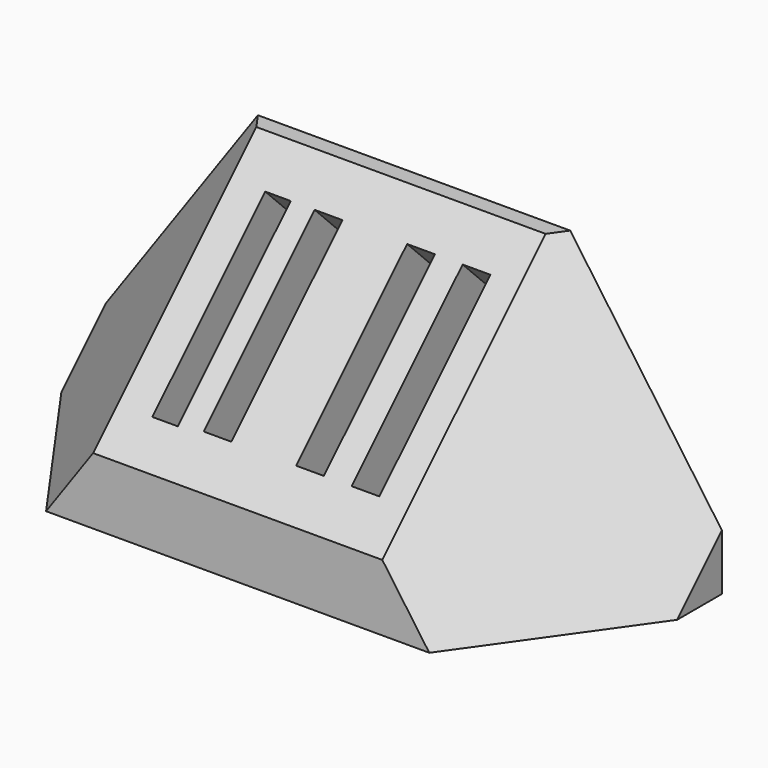
from build123d import *

# Parameters (mm, degrees)
F0_W      = 76.6343446126
F0_H      = 33.6732733995
F1_DEPTH  = 27.432
F2_SIZE   = 25.4
F3_SIZE   = 20.32
F4_W      = 3.1658643857
F4_H      = 24.8281476088
F5_DEPTH  = 25.4
F6_W      = 3.4536682069
F6_H      = 24.4211279787
F7_DEPTH  = 25.4
F8_W      = 3.4536719322
F8_H      = 24.4211279787
F9_DEPTH  = 25.4
F10_W     = 3.4536686726
F10_H     = 24.4211279787
F11_DEPTH = 25.4


with BuildPart() as f1:
    # F0 (on Front) → F1 (new body)
    with BuildSketch(Plane.XZ):
        Rectangle(F0_W, F0_H)
    extrude(amount=F1_DEPTH)

    # F2
    f2_edges = [f1.edges().sort_by_distance(p)[0] for p in [
        (0, -27.432, 16.836637),
    ]]
    chamfer(f2_edges, length=F2_SIZE)

    # F3
    f3_edges = [f1.edges().sort_by_distance(p)[0] for p in [
        (-38.317172, -14.732, 4.136637),
        (38.317172, -14.732, 4.136637),
    ]]
    chamfer(f3_edges, length=F3_SIZE)

    # F4 (on face) → F5 (cut)
    with BuildSketch(Plane(origin=(0, -9.4343183499, 9.4343183499), x_dir=(1, 0, 0), z_dir=(0, -0.7071067812, 0.7071067812))):
        with Locations((-12.0878419839, -7.6438782271)):
            Rectangle(F4_W, F4_H)
    extrude(amount=-F5_DEPTH, mode=Mode.SUBTRACT)

    # F6 (on face) → F7 (cut)
    with BuildSketch(Plane(origin=(0, -9.4343183499, 9.4343183499), x_dir=(1, 0, 0), z_dir=(0, -0.7071067812, 0.7071067812))):
        with Locations((-5.7953335345, -7.4403684121)):
            Rectangle(F6_W, F6_H)
    extrude(amount=-F7_DEPTH, mode=Mode.SUBTRACT)

    # F8 (on face) → F9 (cut)
    with BuildSketch(Plane(origin=(0, -9.4343183499, 9.4343183499), x_dir=(1, 0, 0), z_dir=(0, -0.7071067812, 0.7071067812))):
        with Locations((12.6242348924, -7.4403684121)):
            Rectangle(F8_W, F8_H)
    extrude(amount=-F9_DEPTH, mode=Mode.SUBTRACT)

    # F10 (on face) → F11 (cut)
    with BuildSketch(Plane(origin=(0, -9.4343183499, 9.4343183499), x_dir=(1, 0, 0), z_dir=(0, -0.7071067812, 0.7071067812))):
        with Locations((5.7168968488, -7.4403684121)):
            Rectangle(F10_W, F10_H)
    extrude(amount=-F11_DEPTH, mode=Mode.SUBTRACT)


solid = f1.part
